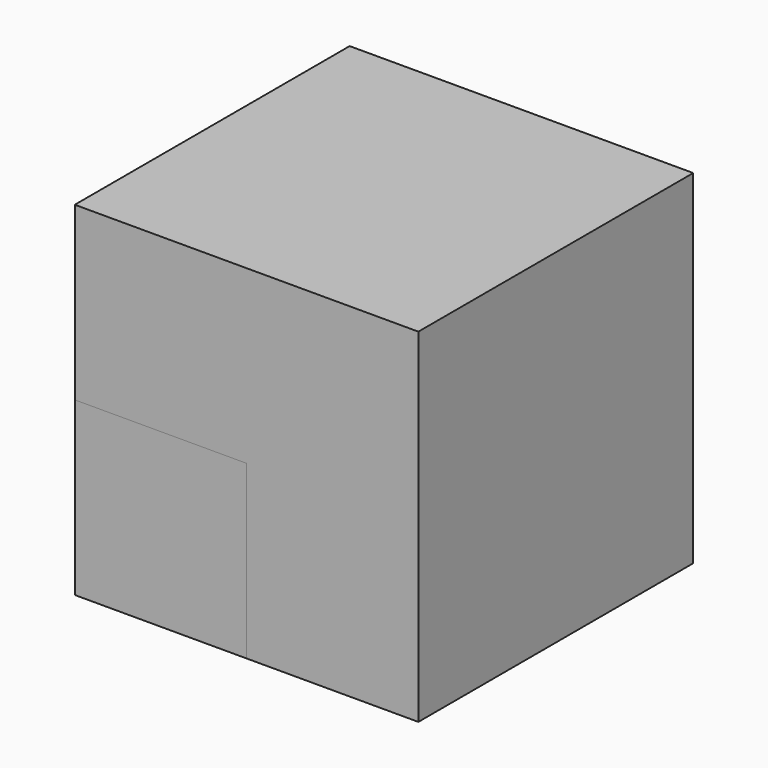
from build123d import *

# Parameters (mm, degrees)
BOX_W        = 10
BOX_H        = 10
BOX_DEPTH    = 10
BOX001_W     = 5
BOX001_H     = 5
BOX001_DEPTH = 5


with BuildPart() as box:
    # Box → Box (new body)
    with BuildSketch(Plane.XY):
        with Locations((5, 5)):
            Rectangle(BOX_W, BOX_H)
    extrude(amount=BOX_DEPTH)


with BuildPart() as box001:
    # Box001 → Box001 (new body)
    with BuildSketch(Plane.XY):
        with Locations((2.5, 2.5)):
            Rectangle(BOX001_W, BOX001_H)
    extrude(amount=BOX001_DEPTH)


solid = Compound([box.part, box001.part])
